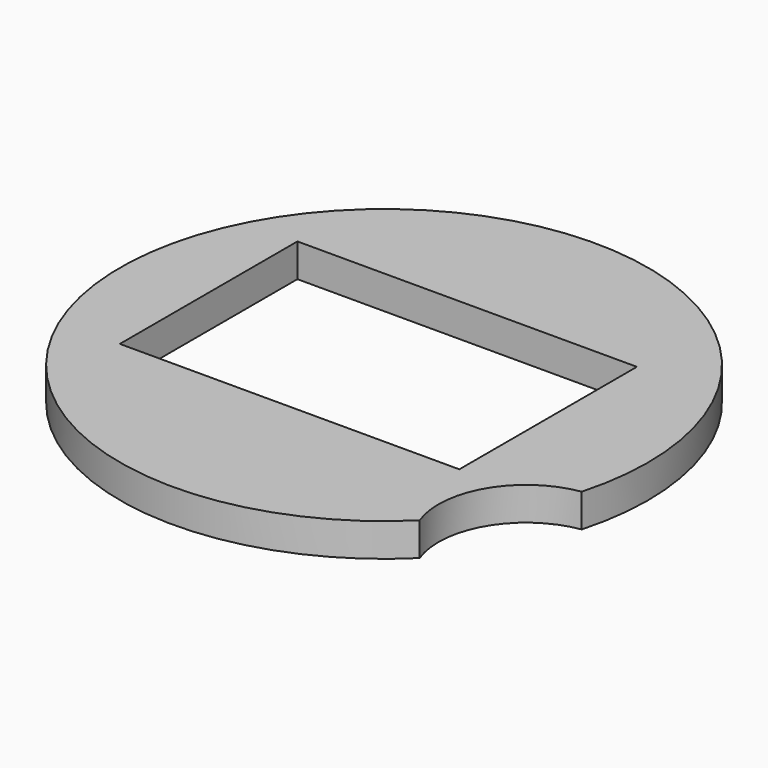
from build123d import *

# Parameters (mm, degrees)
F0_R     = 15.875
F1_DEPTH = 2
F2_W     = 20.42
F2_H     = 13.35
F3_DEPTH = 2
F4_R     = 5.26728
F5_DEPTH = 5


with BuildPart() as f1:
    # F0 (on Top) → F1 (new body)
    with BuildSketch(Plane.XY):
        Circle(F0_R)
    extrude(amount=F1_DEPTH)

    # F2 (on face) → F3 (cut)
    with BuildSketch(Plane.XY.offset(2)):
        with Locations((-0.826221, 0.604355)):
            Rectangle(F2_W, F2_H)
    extrude(amount=-F3_DEPTH, mode=Mode.SUBTRACT)

    # F4 (on face) → F5 (cut)
    with BuildSketch(Plane.XY.offset(2)):
        with Locations((16.107954, -9.460228)):
            Circle(F4_R)
    extrude(amount=-F5_DEPTH, mode=Mode.SUBTRACT)


solid = f1.part
